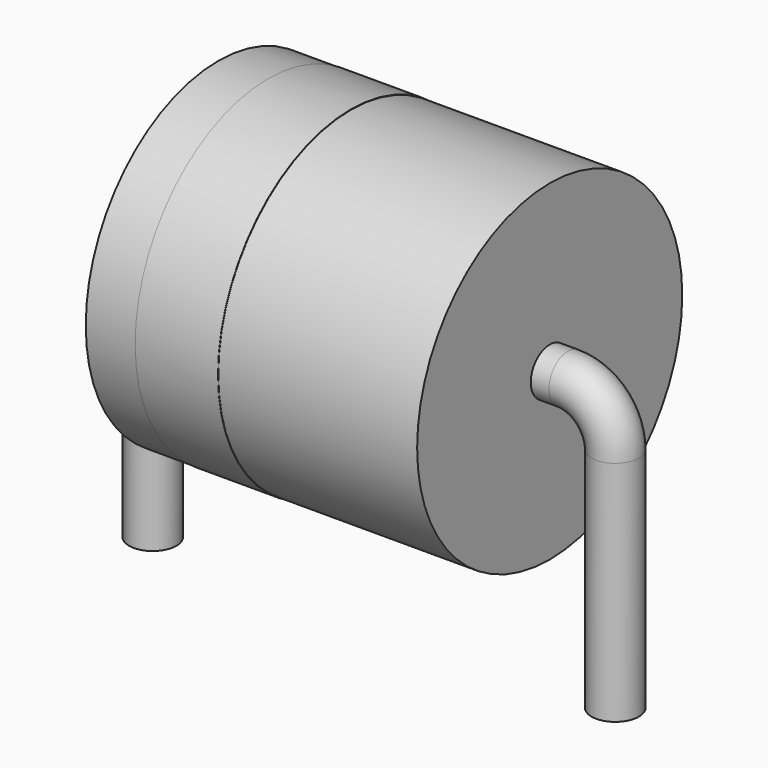
from build123d import *

# Parameters (mm, degrees)
SKETCH002_W = 9.1
SKETCH002_H = 4.55
SKETCH003_W = 2.275
SKETCH003_H = 0.02
SKETCH_R    = 0.65


with BuildPart() as revolution:
    # Sketch002 → Revolution (revolve)
    with BuildSketch(Plane.XZ):
        with Locations((6.35, 7.325)):
            Rectangle(SKETCH002_W, SKETCH002_H)
    revolve(axis=Axis((1.8, 0, 5.05), (1, 0, 0)))


with BuildPart() as revolution001:
    # Sketch003 → Revolution001 (revolve)
    with BuildSketch(Plane.XZ):
        with Locations((4.3025, 9.6)):
            Rectangle(SKETCH003_W, SKETCH003_H)
    revolve(axis=Axis((0, 0, 5.05), (1, 0, 0)))


with BuildPart() as sweep_body:
    # Sweep: sweep along a path in Sketch001
    with BuildLine(Plane.XZ) as sweep_path:
        Line((0, -2.5), (0, 3.75))
        ThreePointArc((0, 3.75), (0.380761, 4.669239), (1.3, 5.05))
        Line((1.3, 5.05), (11.4, 5.05))
        ThreePointArc((11.4, 5.05), (12.319239, 4.669239), (12.7, 3.75))
        Line((12.7, 3.75), (12.7, -2.5))
    # Sketch → Sweep (sweep)
    with BuildSketch(Plane.XY.offset(-2)):
        Circle(SKETCH_R)
    sweep(path=sweep_path.line)


solid = Compound([revolution.part, revolution001.part, sweep_body.part])
